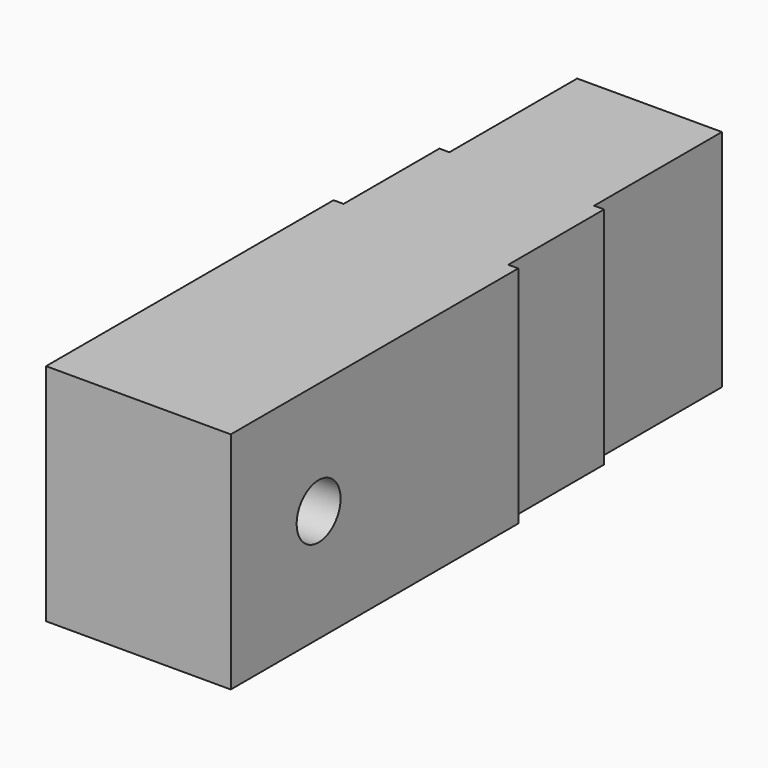
from build123d import *

# Parameters (mm, degrees)
F1_DEPTH = 22.5
F3_R     = 2.75
F4_DEPTH = 22.5


with BuildPart() as f1:
    # F0 (on Top) → F1 (new body)
    with BuildSketch(Plane.XY):
        Polygon((0, 50.875000723), (0, -13.124999277), (9.25, -13.124999277), (9.25, 22.875000723), (8.2500004293, 22.875000723), (8.2500004293, 34.875000723), (7.2500008586, 34.875000723), (7.2500008586, 50.875000723), align=None)
        Polygon((-9.25, -13.124999277), (0, -13.124999277), (0, 50.875000723), (-7.2500008586, 50.875000723), (-7.2500008586, 34.875000723), (-8.2500004293, 34.875000723), (-8.2500004293, 22.875000723), (-9.25, 22.875000723), align=None)
    extrude(amount=F1_DEPTH)

    # F3 (on offset) → F4 (cut)
    with BuildSketch(Plane(origin=(-9.25, 0, 0), x_dir=(0, -1, 0), z_dir=(-1, 0, 0))):
        with Locations((2.124999277, 11.25)):
            Circle(F3_R)
    extrude(amount=-F4_DEPTH, mode=Mode.SUBTRACT)


solid = f1.part
